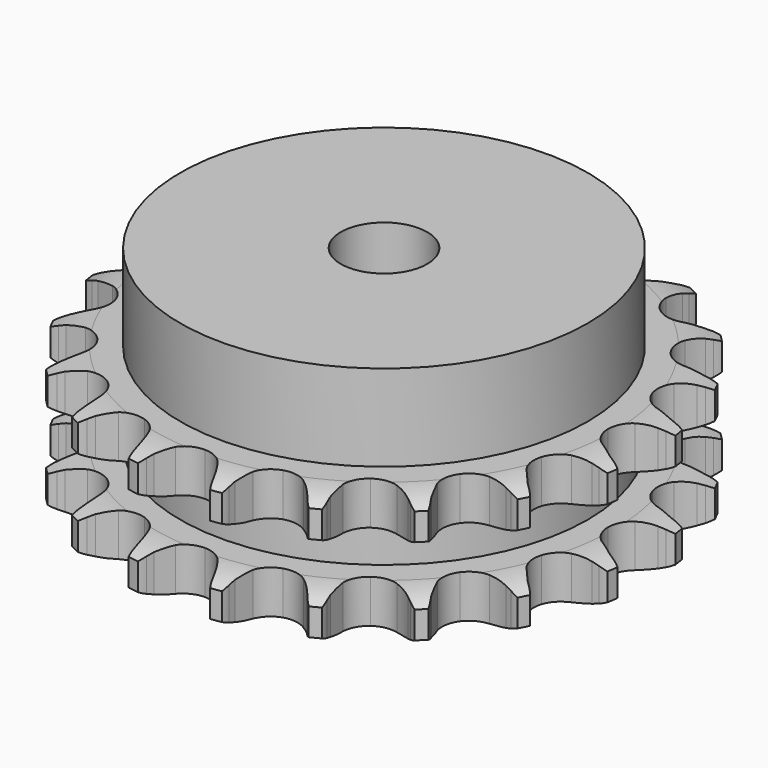
from build123d import *

# Parameters (mm, degrees)
PAD_DEPTH         = 21
SKETCH001_R       = 33
PAD001_DEPTH      = 35
SKETCH002_R       = 7
POCKET_DEPTH      = 0.001
POCKET_DEPTH_BACK = 35.001


with BuildPart() as part:
    # Sprocket → Pad (new body)
    with BuildSketch(Plane.XY):
        with BuildLine():
            ThreePointArc((-6.940803, 43.822508), (-5.995983, 42.720524), (-5.298097, 41.447728))
            Line((-5.298097, 41.447728), (-4.88853, 40.473408))
            ThreePointArc((-4.88853, 40.473408), (-4.228423, 39.155204), (-3.399774, 37.935883))
            ThreePointArc((-3.399774, 37.935883), (-1.891298, 36.714343), (0, 36.277703))
            ThreePointArc((0, 36.277703), (1.891298, 36.714343), (3.399774, 37.935883))
            ThreePointArc((3.399774, 37.935883), (4.228423, 39.155204), (4.88853, 40.473408))
            Line((4.88853, 40.473408), (5.298097, 41.447728))
            ThreePointArc((5.298097, 41.447728), (5.995983, 42.720524), (6.940803, 43.822508))
            ThreePointArc((6.940803, 43.822508), (7.498849, 42.482493), (7.769263, 41.056334))
            Line((7.769263, 41.056334), (7.857702, 40.003137))
            ThreePointArc((7.857702, 40.003137), (8.078154, 38.545467), (8.489456, 37.129757))
            ThreePointArc((8.489456, 37.129757), (9.546625, 35.501859), (11.210427, 34.502146))
            ThreePointArc((11.210427, 34.502146), (13.144087, 34.332972), (14.95621, 35.028581))
            Line((14.95621, 35.028581), (17.15624, 36.981859))
            ThreePointArc((17.15624, 36.981859), (17.492032, 37.390102), (17.846842, 37.78193))
            ThreePointArc((17.846842, 37.78193), (18.903887, 38.776772), (20.142996, 39.532855))
            ThreePointArc((20.142996, 39.532855), (20.259641, 38.08598), (20.076113, 36.64606))
            Line((20.076113, 36.64606), (19.834768, 35.617081))
            ThreePointArc((19.834768, 35.617081), (19.593985, 34.16263), (19.547678, 32.689111))
            ThreePointArc((19.547678, 32.689111), (20.050058, 30.814205), (21.323499, 29.349278))
            ThreePointArc((21.323499, 29.349278), (23.110241, 28.590851), (25.048628, 28.692437))
            Line((25.048628, 28.692437), (27.744576, 29.870268))
            ThreePointArc((27.744576, 29.870268), (28.190088, 30.154765), (28.648614, 30.417773))
            ThreePointArc((28.648614, 30.417773), (29.961346, 31.037279), (31.373452, 31.373452))
            ThreePointArc((31.373452, 31.373452), (31.037279, 29.961346), (30.417773, 28.648614))
            Line((30.417773, 28.648614), (29.870268, 27.744576))
            ThreePointArc((29.870268, 27.744576), (29.191821, 26.435718), (28.692437, 25.048628))
            ThreePointArc((28.692437, 25.048628), (28.590851, 23.110241), (29.349278, 21.323499))
            ThreePointArc((29.349278, 21.323499), (30.814205, 20.050058), (32.689111, 19.547678))
            Line((32.689111, 19.547678), (35.617081, 19.834768))
            ThreePointArc((35.617081, 19.834768), (36.128702, 19.96767), (36.64606, 20.076113))
            ThreePointArc((36.64606, 20.076113), (38.08598, 20.259641), (39.532855, 20.142996))
            ThreePointArc((39.532855, 20.142996), (38.776772, 18.903887), (37.78193, 17.846842))
            Line((37.78193, 17.846842), (36.981859, 17.15624))
            ThreePointArc((36.981859, 17.15624), (35.932157, 16.121093), (35.028581, 14.95621))
            ThreePointArc((35.028581, 14.95621), (34.332972, 13.144087), (34.502146, 11.210427))
            ThreePointArc((34.502146, 11.210427), (35.501859, 9.546625), (37.129757, 8.489456))
            Line((37.129757, 8.489456), (40.003137, 7.857702))
            ThreePointArc((40.003137, 7.857702), (40.530787, 7.825999), (41.056334, 7.769263))
            ThreePointArc((41.056334, 7.769263), (42.482493, 7.498849), (43.822508, 6.940803))
            ThreePointArc((43.822508, 6.940803), (42.720524, 5.995983), (41.447728, 5.298097))
            Line((41.447728, 5.298097), (40.473408, 4.88853))
            ThreePointArc((40.473408, 4.88853), (39.155204, 4.228423), (37.935883, 3.399774))
            ThreePointArc((37.935883, 3.399774), (36.714343, 1.891298), (36.277703, 0))
            ThreePointArc((36.277703, 0), (36.714343, -1.891298), (37.935883, -3.399774))
            Line((37.935883, -3.399774), (40.473408, -4.88853))
            ThreePointArc((40.473408, -4.88853), (40.965436, -5.081734), (41.447728, -5.298097))
            ThreePointArc((41.447728, -5.298097), (42.720524, -5.995983), (43.822508, -6.940803))
            ThreePointArc((43.822508, -6.940803), (42.482493, -7.498849), (41.056334, -7.769263))
            Line((41.056334, -7.769263), (40.003137, -7.857702))
            ThreePointArc((40.003137, -7.857702), (38.545467, -8.078154), (37.129757, -8.489456))
            ThreePointArc((37.129757, -8.489456), (35.501859, -9.546625), (34.502146, -11.210427))
            ThreePointArc((34.502146, -11.210427), (34.332972, -13.144087), (35.028581, -14.95621))
            Line((35.028581, -14.95621), (36.981859, -17.15624))
            ThreePointArc((36.981859, -17.15624), (37.390102, -17.492032), (37.78193, -17.846842))
            ThreePointArc((37.78193, -17.846842), (38.776772, -18.903887), (39.532855, -20.142996))
            ThreePointArc((39.532855, -20.142996), (38.08598, -20.259641), (36.64606, -20.076113))
            Line((36.64606, -20.076113), (35.617081, -19.834768))
            ThreePointArc((35.617081, -19.834768), (34.16263, -19.593985), (32.689111, -19.547678))
            ThreePointArc((32.689111, -19.547678), (30.814205, -20.050058), (29.349278, -21.323499))
            ThreePointArc((29.349278, -21.323499), (28.590851, -23.110241), (28.692437, -25.048628))
            Line((28.692437, -25.048628), (29.870268, -27.744576))
            ThreePointArc((29.870268, -27.744576), (30.154765, -28.190088), (30.417773, -28.648614))
            ThreePointArc((30.417773, -28.648614), (31.037279, -29.961346), (31.373452, -31.373452))
            ThreePointArc((31.373452, -31.373452), (29.961346, -31.037279), (28.648614, -30.417773))
            Line((28.648614, -30.417773), (27.744576, -29.870268))
            ThreePointArc((27.744576, -29.870268), (26.435718, -29.191821), (25.048628, -28.692437))
            ThreePointArc((25.048628, -28.692437), (23.110241, -28.590851), (21.323499, -29.349278))
            ThreePointArc((21.323499, -29.349278), (20.050058, -30.814205), (19.547678, -32.689111))
            Line((19.547678, -32.689111), (19.834768, -35.617081))
            ThreePointArc((19.834768, -35.617081), (19.96767, -36.128702), (20.076113, -36.64606))
            ThreePointArc((20.076113, -36.64606), (20.259641, -38.08598), (20.142996, -39.532855))
            ThreePointArc((20.142996, -39.532855), (18.903887, -38.776772), (17.846842, -37.78193))
            Line((17.846842, -37.78193), (17.15624, -36.981859))
            ThreePointArc((17.15624, -36.981859), (16.121093, -35.932157), (14.95621, -35.028581))
            ThreePointArc((14.95621, -35.028581), (13.144087, -34.332972), (11.210427, -34.502146))
            ThreePointArc((11.210427, -34.502146), (9.546625, -35.501859), (8.489456, -37.129757))
            Line((8.489456, -37.129757), (7.857702, -40.003137))
            ThreePointArc((7.857702, -40.003137), (7.825999, -40.530787), (7.769263, -41.056334))
            ThreePointArc((7.769263, -41.056334), (7.498849, -42.482493), (6.940803, -43.822508))
            ThreePointArc((6.940803, -43.822508), (5.995983, -42.720524), (5.298097, -41.447728))
            Line((5.298097, -41.447728), (4.88853, -40.473408))
            ThreePointArc((4.88853, -40.473408), (4.228423, -39.155204), (3.399774, -37.935883))
            ThreePointArc((3.399774, -37.935883), (1.891298, -36.714343), (0, -36.277703))
            ThreePointArc((0, -36.277703), (-1.891298, -36.714343), (-3.399774, -37.935883))
            Line((-3.399774, -37.935883), (-4.88853, -40.473408))
            ThreePointArc((-4.88853, -40.473408), (-5.081734, -40.965436), (-5.298097, -41.447728))
            ThreePointArc((-5.298097, -41.447728), (-5.995983, -42.720524), (-6.940803, -43.822508))
            ThreePointArc((-6.940803, -43.822508), (-7.498849, -42.482493), (-7.769263, -41.056334))
            Line((-7.769263, -41.056334), (-7.857702, -40.003137))
            ThreePointArc((-7.857702, -40.003137), (-8.078154, -38.545467), (-8.489456, -37.129757))
            ThreePointArc((-8.489456, -37.129757), (-9.546625, -35.501859), (-11.210427, -34.502146))
            ThreePointArc((-11.210427, -34.502146), (-13.144087, -34.332972), (-14.95621, -35.028581))
            Line((-14.95621, -35.028581), (-17.15624, -36.981859))
            ThreePointArc((-17.15624, -36.981859), (-17.492032, -37.390102), (-17.846842, -37.78193))
            ThreePointArc((-17.846842, -37.78193), (-18.903887, -38.776772), (-20.142996, -39.532855))
            ThreePointArc((-20.142996, -39.532855), (-20.259641, -38.08598), (-20.076113, -36.64606))
            Line((-20.076113, -36.64606), (-19.834768, -35.617081))
            ThreePointArc((-19.834768, -35.617081), (-19.593985, -34.16263), (-19.547678, -32.689111))
            ThreePointArc((-19.547678, -32.689111), (-20.050058, -30.814205), (-21.323499, -29.349278))
            ThreePointArc((-21.323499, -29.349278), (-23.110241, -28.590851), (-25.048628, -28.692437))
            Line((-25.048628, -28.692437), (-27.744576, -29.870268))
            ThreePointArc((-27.744576, -29.870268), (-28.190088, -30.154765), (-28.648614, -30.417773))
            ThreePointArc((-28.648614, -30.417773), (-29.961346, -31.037279), (-31.373452, -31.373452))
            ThreePointArc((-31.373452, -31.373452), (-31.037279, -29.961346), (-30.417773, -28.648614))
            Line((-30.417773, -28.648614), (-29.870268, -27.744576))
            ThreePointArc((-29.870268, -27.744576), (-29.191821, -26.435718), (-28.692437, -25.048628))
            ThreePointArc((-28.692437, -25.048628), (-28.590851, -23.110241), (-29.349278, -21.323499))
            ThreePointArc((-29.349278, -21.323499), (-30.814205, -20.050058), (-32.689111, -19.547678))
            Line((-32.689111, -19.547678), (-35.617081, -19.834768))
            ThreePointArc((-35.617081, -19.834768), (-36.128702, -19.96767), (-36.64606, -20.076113))
            ThreePointArc((-36.64606, -20.076113), (-38.08598, -20.259641), (-39.532855, -20.142996))
            ThreePointArc((-39.532855, -20.142996), (-38.776772, -18.903887), (-37.78193, -17.846842))
            Line((-37.78193, -17.846842), (-36.981859, -17.15624))
            ThreePointArc((-36.981859, -17.15624), (-35.932157, -16.121093), (-35.028581, -14.95621))
            ThreePointArc((-35.028581, -14.95621), (-34.332972, -13.144087), (-34.502146, -11.210427))
            ThreePointArc((-34.502146, -11.210427), (-35.501859, -9.546625), (-37.129757, -8.489456))
            Line((-37.129757, -8.489456), (-40.003137, -7.857702))
            ThreePointArc((-40.003137, -7.857702), (-40.530787, -7.825999), (-41.056334, -7.769263))
            ThreePointArc((-41.056334, -7.769263), (-42.482493, -7.498849), (-43.822508, -6.940803))
            ThreePointArc((-43.822508, -6.940803), (-42.720524, -5.995983), (-41.447728, -5.298097))
            Line((-41.447728, -5.298097), (-40.473408, -4.88853))
            ThreePointArc((-40.473408, -4.88853), (-39.155204, -4.228423), (-37.935883, -3.399774))
            ThreePointArc((-37.935883, -3.399774), (-36.714343, -1.891298), (-36.277703, 0))
            ThreePointArc((-36.277703, 0), (-36.714343, 1.891298), (-37.935883, 3.399774))
            Line((-37.935883, 3.399774), (-40.473408, 4.88853))
            ThreePointArc((-40.473408, 4.88853), (-40.965436, 5.081734), (-41.447728, 5.298097))
            ThreePointArc((-41.447728, 5.298097), (-42.720524, 5.995983), (-43.822508, 6.940803))
            ThreePointArc((-43.822508, 6.940803), (-42.482493, 7.498849), (-41.056334, 7.769263))
            Line((-41.056334, 7.769263), (-40.003137, 7.857702))
            ThreePointArc((-40.003137, 7.857702), (-38.545467, 8.078154), (-37.129757, 8.489456))
            ThreePointArc((-37.129757, 8.489456), (-35.501859, 9.546625), (-34.502146, 11.210427))
            ThreePointArc((-34.502146, 11.210427), (-34.332972, 13.144087), (-35.028581, 14.95621))
            Line((-35.028581, 14.95621), (-36.981859, 17.15624))
            ThreePointArc((-36.981859, 17.15624), (-37.390102, 17.492032), (-37.78193, 17.846842))
            ThreePointArc((-37.78193, 17.846842), (-38.776772, 18.903887), (-39.532855, 20.142996))
            ThreePointArc((-39.532855, 20.142996), (-38.08598, 20.259641), (-36.64606, 20.076113))
            Line((-36.64606, 20.076113), (-35.617081, 19.834768))
            ThreePointArc((-35.617081, 19.834768), (-34.16263, 19.593985), (-32.689111, 19.547678))
            ThreePointArc((-32.689111, 19.547678), (-30.814205, 20.050058), (-29.349278, 21.323499))
            ThreePointArc((-29.349278, 21.323499), (-28.590851, 23.110241), (-28.692437, 25.048628))
            Line((-28.692437, 25.048628), (-29.870268, 27.744576))
            ThreePointArc((-29.870268, 27.744576), (-30.154765, 28.190088), (-30.417773, 28.648614))
            ThreePointArc((-30.417773, 28.648614), (-31.037279, 29.961346), (-31.373452, 31.373452))
            ThreePointArc((-31.373452, 31.373452), (-29.961346, 31.037279), (-28.648614, 30.417773))
            Line((-28.648614, 30.417773), (-27.744576, 29.870268))
            ThreePointArc((-27.744576, 29.870268), (-26.435718, 29.191821), (-25.048628, 28.692437))
            ThreePointArc((-25.048628, 28.692437), (-23.110241, 28.590851), (-21.323499, 29.349278))
            ThreePointArc((-21.323499, 29.349278), (-20.050058, 30.814205), (-19.547678, 32.689111))
            Line((-19.547678, 32.689111), (-19.834768, 35.617081))
            ThreePointArc((-19.834768, 35.617081), (-19.96767, 36.128702), (-20.076113, 36.64606))
            ThreePointArc((-20.076113, 36.64606), (-20.259641, 38.08598), (-20.142996, 39.532855))
            ThreePointArc((-20.142996, 39.532855), (-18.903887, 38.776772), (-17.846842, 37.78193))
            Line((-17.846842, 37.78193), (-17.15624, 36.981859))
            ThreePointArc((-17.15624, 36.981859), (-16.121093, 35.932157), (-14.95621, 35.028581))
            ThreePointArc((-14.95621, 35.028581), (-13.144087, 34.332972), (-11.210427, 34.502146))
            ThreePointArc((-11.210427, 34.502146), (-9.546625, 35.501859), (-8.489456, 37.129757))
            Line((-8.489456, 37.129757), (-7.857702, 40.003137))
            ThreePointArc((-7.857702, 40.003137), (-7.825999, 40.530787), (-7.769263, 41.056334))
            ThreePointArc((-7.769263, 41.056334), (-7.498849, 42.482493), (-6.940803, 43.822508))
        make_face()
    extrude(amount=PAD_DEPTH)

    # Sketch → Groove (revolve, cut)
    with BuildSketch(Plane.XZ):
        with BuildLine():
            ThreePointArc((37.233431, 0), (40.14032, 0.329167), (42.9, 1.3))
            Line((42.9, 1.3), (42.9, 5.7))
            ThreePointArc((42.9, 5.7), (40.14032, 6.670833), (37.233431, 7))
            Line((33, 7), (37.233431, 7))
            Line((33, 14), (33, 7))
            Line((37.233431, 14), (33, 14))
            ThreePointArc((37.233431, 14), (40.14032, 14.329167), (42.9, 15.3))
            Line((42.9, 15.3), (42.9, 19.7))
            ThreePointArc((42.9, 19.7), (40.14032, 20.670833), (37.233431, 21))
            Line((37.233431, 21), (47.233431, 21))
            Line((47.233431, 21), (47.233431, 0))
            Line((37.233431, 0), (47.233431, 0))
        make_face()
    revolve(axis=Axis((0, 0, 0), (0, 0, 1)), mode=Mode.SUBTRACT)

    # Sketch001 → Pad001 (join)
    with BuildSketch(Plane.XY):
        Circle(SKETCH001_R)
    extrude(amount=PAD001_DEPTH)

    # Sketch002 → Pocket (cut, two sides)
    with BuildSketch(Plane.XY) as pocket_sk:
        Circle(SKETCH002_R)
    extrude(amount=-POCKET_DEPTH, mode=Mode.SUBTRACT)
    extrude(pocket_sk.sketch, amount=POCKET_DEPTH_BACK, mode=Mode.SUBTRACT)


solid = part.part
